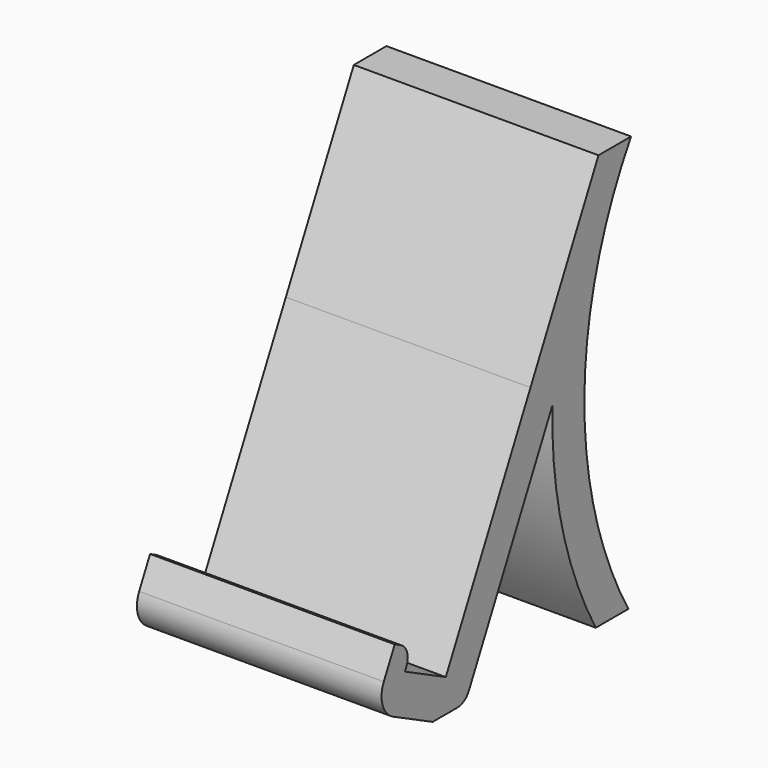
from build123d import *

# Parameters (mm, degrees)
PAD_DEPTH   = 30
FILLET_R    = 4
FILLET001_R = 4


with BuildPart() as part:
    # Sketch → Pad (new body, symmetric)
    with BuildSketch(Plane.YZ):
        with BuildLine():
            Line((-30.928615, 0), (-20.928615, 0))
            Line((-20.928615, 0), (-0.928621, 40.000014))
            Line((-0.928621, 40.000014), (5.816401, 53.490069))
            ThreePointArc((5.816401, 53.490069), (8.759064, 25.831927), (19.071385, 7e-06))
            Line((19.071385, 7e-06), (29.071385, 7e-06))
            ThreePointArc((29.907603, 101.672508), (15.589377, 50.95058), (29.071385, 7e-06))
            Line((19.907603, 101.672508), (29.907603, 101.672508))
            Line((-0.928626, 60.00002), (19.907603, 101.672508))
            Line((-0.928626, 60.00002), (-26.903694, 8.049846))
            Line((-39.425677, 14.310833), (-26.903694, 8.049846))
            Line((-37.18961, 18.782969), (-39.425677, 14.310833))
            Line((-42.556174, 21.466249), (-37.18961, 18.782969))
            Line((-45.905216, 14.768161), (-42.556174, 21.466249))
            ThreePointArc((-45.905216, 14.768161), (-46.258493, 9.797157), (-42.993266, 6.032322))
            Line((-30.928615, 0), (-42.993266, 6.032322))
        make_face()
    extrude(amount=PAD_DEPTH, both=True)

    # Fillet
    fillet_edges = [part.edges().sort_by_distance(p)[0] for p in [
        (0, -37.18961, 18.782969),
    ]]
    fillet(fillet_edges, radius=FILLET_R)

    # Fillet001
    fillet001_edges = [part.edges().sort_by_distance(p)[0] for p in [
        (0, -20.928615, 0),
    ]]
    fillet(fillet001_edges, radius=FILLET001_R)


solid = part.part
